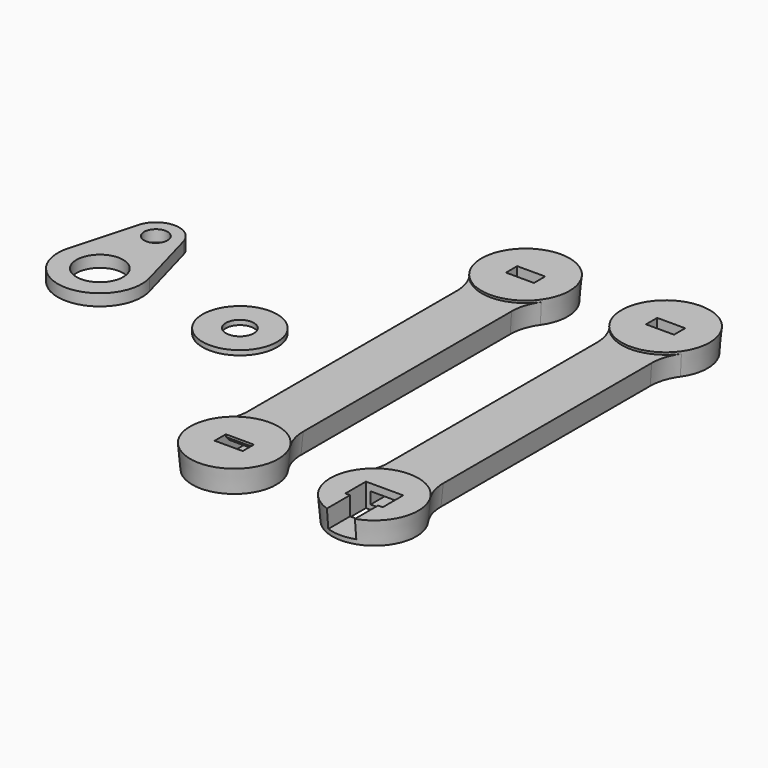
from build123d import *

# Parameters (mm, degrees)
F0_W          = 11
F0_H          = 78
F1_DEPTH      = 4.5
F1_TAPER      = -5
F3_R          = 9
F4_DEPTH      = 5
F4_TAPER      = -5
F2_W          = 6
F2_H          = 2.5
F5_DEPTH      = 40
F5_DEPTH_BACK = 40
F6_W          = 6
F6_H          = 3
F7_DEPTH      = 4
F8_SIZE       = 2
F9_SIZE       = 1
F11_W         = 8
F11_H         = 5.5
F12_DEPTH     = 5.0010001
F14_DEPTH     = 12.1884434176
F16_R         = 5
F16_R_2       = 2.5
F17_DEPTH     = 2.5
F19_R         = 8
F19_R_2       = 3
F20_DEPTH     = 1
F21_R         = 10
F21_2_R       = 10


with BuildPart() as f1:
    # F0 (on Top) → F1 (new body)
    with BuildSketch(Plane.XY):
        Rectangle(F0_W, F0_H)
    extrude(amount=F1_DEPTH, taper=F1_TAPER)

    # F3 (on Top) → F4 (join)
    with BuildSketch(Plane.XY):
        with Locations((0, -39)):
            Circle(F3_R)
        with Locations((0, 39)):
            Circle(F3_R)
    extrude(amount=F4_DEPTH, taper=F4_TAPER)

    # F2 (on Front) → F5 (cut, two sides)
    with BuildSketch(Plane.XZ) as f5_sk:
        with Locations((0, 2.25)):
            Rectangle(F2_W, F2_H)
    extrude(amount=-F5_DEPTH, mode=Mode.SUBTRACT)
    extrude(f5_sk.sketch, amount=F5_DEPTH_BACK, mode=Mode.SUBTRACT)

    # F6 (on face) → F7 (cut, through all)
    with BuildSketch(Plane.XY.offset(5)):
        with Locations((0, -39)):
            Rectangle(F6_W, F6_H)
        with Locations((0, 39)):
            Rectangle(F6_W, F6_H)
    extrude(amount=-F7_DEPTH, mode=Mode.SUBTRACT)

    # F8
    f8_edges = [f1.edges().sort_by_distance(p)[0] for p in [
        (0, -40.5, 1),
        (0, 40.5, 1),
    ]]
    chamfer(f8_edges, length=F8_SIZE)

    # F9
    f9_edges = [f1.edges().sort_by_distance(p)[0] for p in [
        (0, 37.5, 3.5),
        (0, -37.5, 3.5),
    ]]
    chamfer(f9_edges, length=F9_SIZE)


with BuildPart() as f10_1:
    # F10: copy of F1
    add(f1.part.moved(Location((30, 0, 0))))

    # F21#2
    f21_2_edges = [f10_1.edges().sort_by_distance(p)[0] for p in [
        (35.696847, -31.780033, 2.249973),
        (35.696847, 31.780033, 2.249973),
        (24.303153, 31.780033, 2.249973),
        (24.303153, -31.780033, 2.249973),
    ]]
    fillet(f21_2_edges, radius=F21_2_R)


with BuildPart() as f1_1:
    add(f1.part)

    # F11 (on face) → F12 (cut, through all)
    with BuildSketch(Plane.XY.offset(5)):
        with Locations((0, -39)):
            Rectangle(F11_W, F11_H)
    extrude(amount=-F12_DEPTH, mode=Mode.SUBTRACT)

    # F13 (on face) → F14 (cut, through all)
    with BuildSketch(Plane.XZ.offset(36.25)):
        Polygon((-3, 1), (3, 1), (3, 3.5), (3, 5), (-3, 5), (-3, 3.5), align=None)
    extrude(amount=F14_DEPTH, mode=Mode.SUBTRACT)


with BuildPart() as f1_2:
    # F15: moved
    add(f1_1.part.moved(Location((60, 0, 0))))

    # F21
    f21_edges = [f1_2.edges().sort_by_distance(p)[0] for p in [
        (65.696847, -31.780033, 2.249973),
        (65.696847, 31.780033, 2.249973),
        (54.303153, 31.780033, 2.249973),
        (54.303153, -31.780033, 2.249973),
    ]]
    fillet(f21_edges, radius=F21_R)


with BuildPart() as f17:
    # F16 (on Top) → F17 (new body)
    with BuildSketch(Plane.XY):
        with BuildLine():
            Line((-4.8189440983, 16.3333333333), (-8.6740993769, 2.4))
            ThreePointArc((-8.6740993769, 2.4), (0, -9), (8.6740993769, 2.4))
            Line((8.6740993769, 2.4), (4.8189440983, 16.3333333333))
            ThreePointArc((4.8189440983, 16.3333333333), (0, 20), (-4.8189440983, 16.3333333333))
        make_face()
        Circle(F16_R, mode=Mode.SUBTRACT)
        with Locations((0, 15)):
            Circle(F16_R_2, mode=Mode.SUBTRACT)
    extrude(amount=F17_DEPTH)


with BuildPart() as f17_1:
    # F18: moved
    add(f17.part.moved(Location((-30, 0, 0))))


with BuildPart() as f20:
    # F19 (on Top) → F20 (new body)
    with BuildSketch(Plane.XY):
        Circle(F19_R)
        Circle(F19_R_2, mode=Mode.SUBTRACT)
    extrude(amount=F20_DEPTH)


solid = Compound([f10_1.part, f1_2.part, f17_1.part, f20.part])
